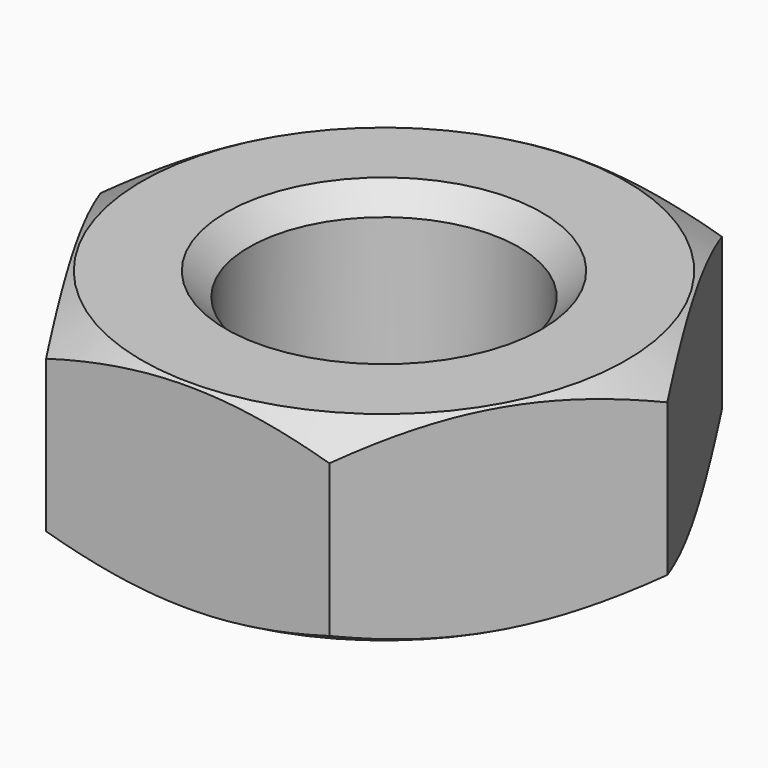
from build123d import *

# Parameters (mm, degrees)
CYLINDER001_R     = 8.8
CYLINDER001_DEPTH = 30
PAD_DEPTH         = 13
CHAMFER001_SIZE   = 1.5


with BuildPart() as cilindro001:
    # Cylinder001 → Cylinder001 (new body)
    with BuildSketch(Plane.XY.offset(-10)):
        Circle(CYLINDER001_R)
    extrude(amount=CYLINDER001_DEPTH)


with BuildPart() as revolution:
    # Sketch001 → Revolution (revolve)
    with BuildSketch(Plane.YZ):
        Polygon((23.594229, 8.5), (15.8, 13), (25.8, 13), (25.8, 0), (15.8, 0), (23.594229, 4.5), align=None)
    revolve(axis=Axis((0, 0, 0), (0, 0, 1)))


with BuildPart() as chamfer001:
    # Sketch → Pad (new body)
    with BuildSketch(Plane.XY):
        Polygon((9.237604, 16), (-9.237604, 16), (-18.475209, 0), (-9.237604, -16), (9.237604, -16), (18.475209, 0), align=None)
    extrude(amount=PAD_DEPTH)

    # Cut: cut Revolution
    add(revolution.part, mode=Mode.SUBTRACT)

    # Cut002: cut Cilindro001
    add(cilindro001.part, mode=Mode.SUBTRACT)

    # Chamfer001
    chamfer001_edges = [chamfer001.edges().sort_by_distance(p)[0] for p in [
        (-8.8, 0, 13),
        (-8.8, 0, 0),
    ]]
    chamfer(chamfer001_edges, length=CHAMFER001_SIZE)


solid = chamfer001.part
